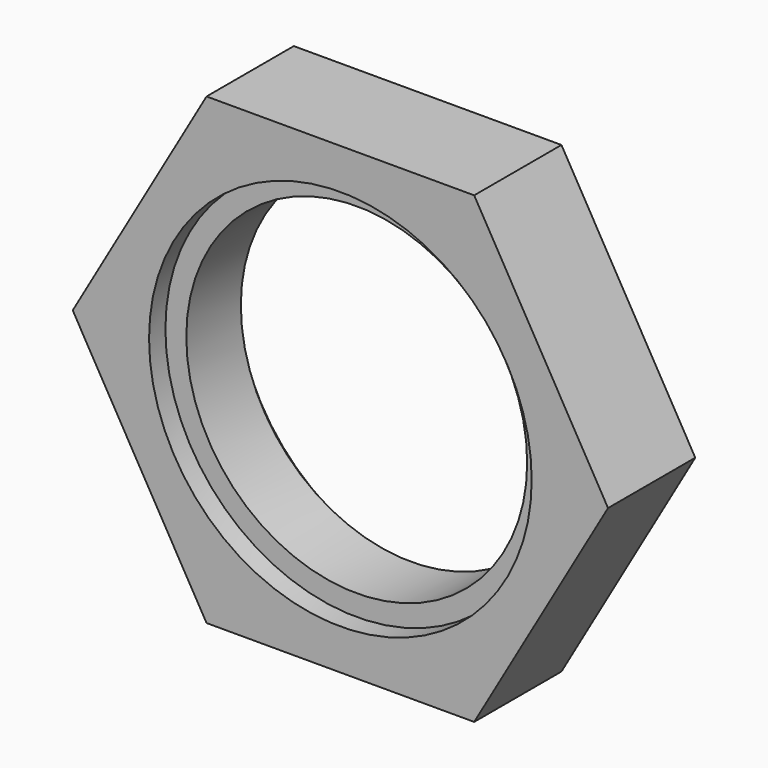
from build123d import *

# Parameters (mm, degrees)
F0_R     = 39.6875
F1_DEPTH = 25.4
F2_R     = 44.45
F3_DEPTH = 4.7625
F4_R     = 44.551262
F4_R_2   = 39.6875
F5_DEPTH = 4.7625


with BuildPart() as f1:
    # F0 (on Front) → F1 (new body)
    with BuildSketch(Plane.XZ):
        Polygon((31.162481, 53.975), (-31.162481, 53.975), (-62.324962, 0), (-31.162481, -53.975), (31.162481, -53.975), (62.324962, 0), align=None)
        Circle(F0_R, mode=Mode.SUBTRACT)
    extrude(amount=F1_DEPTH)

    # F2 (on Front) → F3 (cut)
    with BuildSketch(Plane.XZ):
        Circle(F2_R)
    extrude(amount=F3_DEPTH, mode=Mode.SUBTRACT)

    # F4 (on face) → F5 (cut)
    with BuildSketch(Plane.XZ.offset(25.4)):
        Circle(F4_R)
        Circle(F4_R_2, mode=Mode.SUBTRACT)
    extrude(amount=-F5_DEPTH, mode=Mode.SUBTRACT)


solid = f1.part
